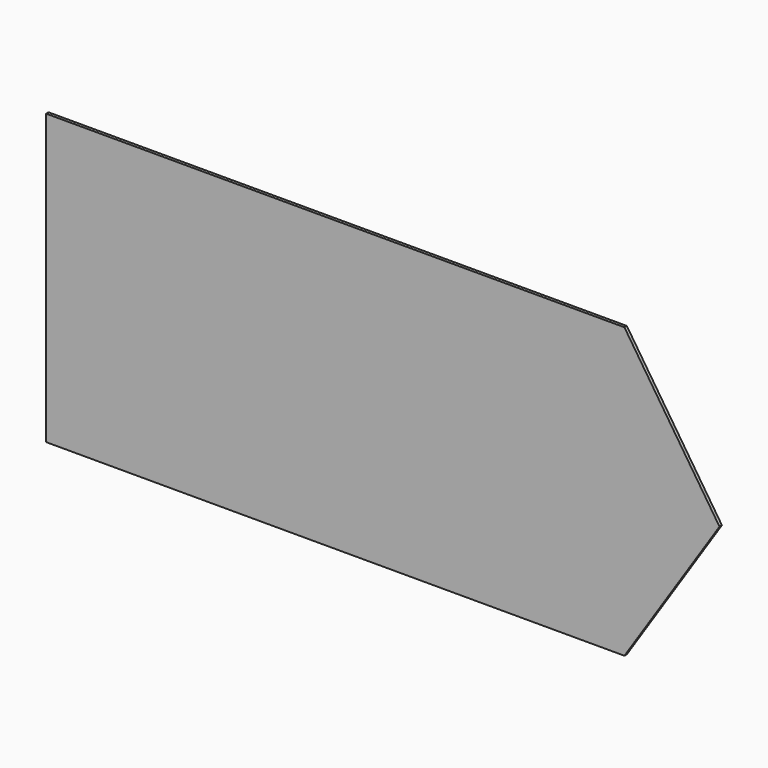
from build123d import *

# Parameters (mm, degrees)
F0_W     = 3657.6
F0_H     = 1828.8
F1_DEPTH = 19.05


with BuildPart() as f1:
    # F0 (on Front) → F1 (new body)
    with BuildSketch(Plane.XZ):
        Polygon((2406.868458, -410.069519), (1805.467397, 504.330481), (1805.467397, -1324.469519), align=None)
        with Locations((-23.332603, -410.069519)):
            Rectangle(F0_W, F0_H)
    extrude(amount=F1_DEPTH)


solid = f1.part
